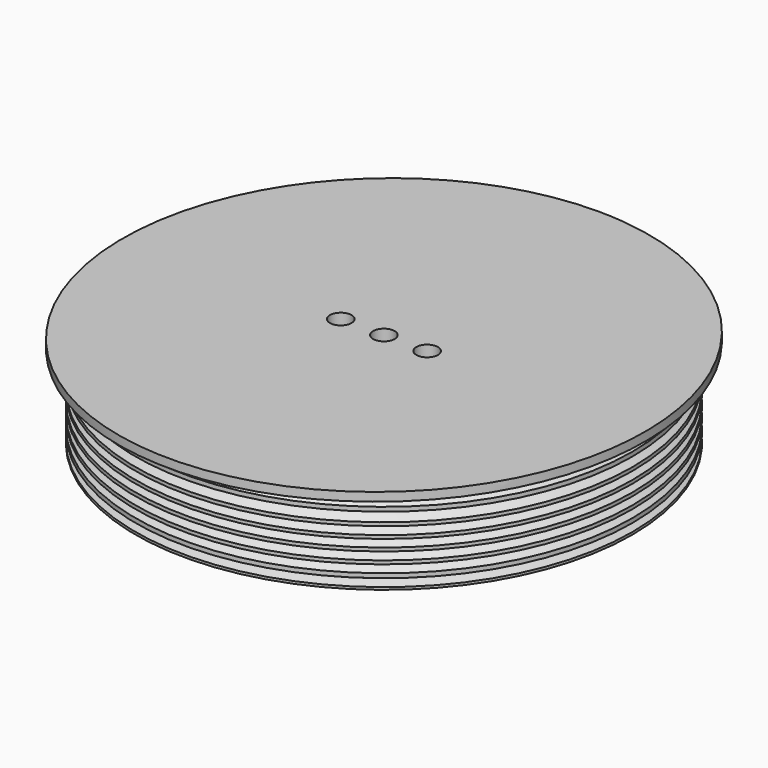
from build123d import *

# Parameters (mm, degrees)
F0_R     = 57.5
F1_DEPTH = 20
F3_DEPTH = 2
F4_R     = 2.5
F5_DEPTH = 22.001


with BuildPart() as f1:
    # F0 (on Top) → F1 (new body)
    with BuildSketch(Plane.XY):
        Circle(F0_R)
    extrude(amount=F1_DEPTH)

    # F2 (on face) → F3 (join)
    with BuildSketch(Plane.XY.offset(20)):
        with BuildLine():
            add(Edge.make_bspline(
                [(0, 62), (-104.789074, 62), (-52.394537, -31), (0, -124), (52.394537, -31), (104.789074, 62), (0, 62)],
                knots=[0, 0, 0, 2.094395, 2.094395, 4.18879, 4.18879, 6.283185, 6.283185, 6.283185], degree=2, weights=[1, 0.5, 1, 0.5, 1, 0.5, 1]))
        make_face()
    extrude(amount=F3_DEPTH)

    # F4 (on face) → F5 (cut, through all)
    with BuildSketch(Plane.XY.offset(22)):
        Circle(F4_R)
        with Locations((10, 0)):
            Circle(F4_R)
        with Locations((-10, 0)):
            Circle(F4_R)
    extrude(amount=-F5_DEPTH, mode=Mode.SUBTRACT)

    # F6 (on Front) → F7 (revolve, cut)
    with BuildSketch(Plane.XZ):
        Polygon((68.928674, 19.907886), (58.39657, 19.907886), (55.479165, 18.257678), (58.39657, 16.328355), (55.48143, 15.011839), (58.39657, 13.234262), (55.48143, 12.387931), (58.39657, 10.60732), (55.48143, 9.855025), (58.39657, 8.077448), (55.48143, 7.231116), (58.39657, 5.453539), (55.48143, 4.607208), (58.39657, 2.850865), (55.48143, 1.346276), (58.960788, 0), (68.928674, 0), align=None)
    revolve(axis=Axis((0, 0, 8.684125), (0, 0, -1)), mode=Mode.SUBTRACT)


solid = f1.part
